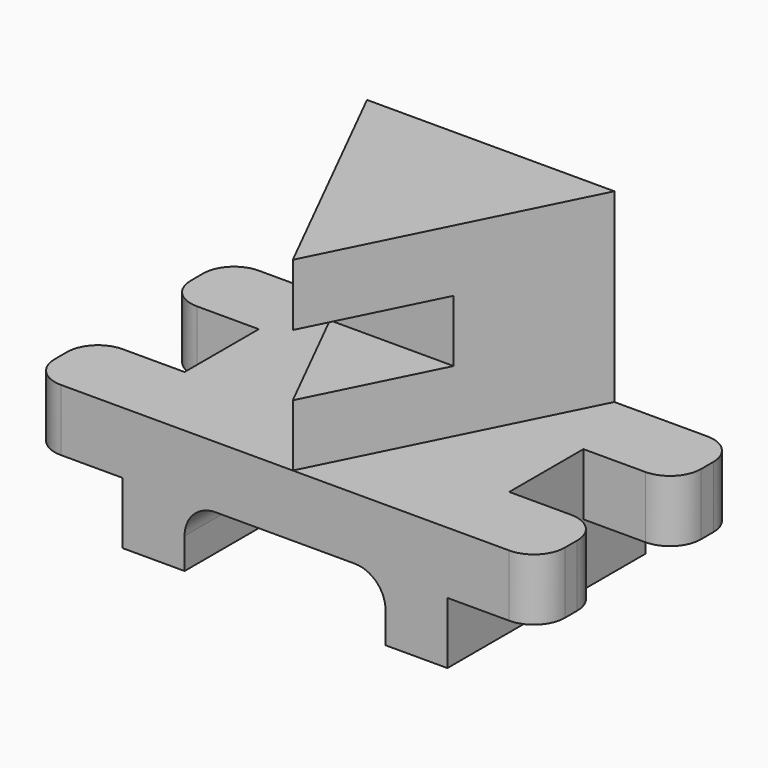
from build123d import *

# Parameters (mm, degrees)
F0_W      = 209.55
F0_H      = 25.4
F1_DEPTH  = 101.6
F2_W      = 38.1
F2_H      = 38.1
F3_DEPTH  = 25.401
F5_DEPTH  = 25.4
F6_W      = 82.55
F6_H      = 101.6
F7_DEPTH  = 25.4
F9_DEPTH  = 76.2
F10_W     = 50.8
F10_H     = 25.4
F11_DEPTH = 50.8
F12_R     = 12.7


with BuildPart() as f1:
    # F0 (on Front) → F1 (new body)
    with BuildSketch(Plane.XZ):
        with Locations((104.775, 12.7)):
            Rectangle(F0_W, F0_H)
    extrude(amount=F1_DEPTH)

    # F2 (on face) → F3 (cut, through all)
    with BuildSketch(Plane.XY.offset(25.4)):
        with Locations((19.05, -50.8)):
            Rectangle(F2_W, F2_H)
        with Locations((190.5, -50.8)):
            Rectangle(F2_W, F2_H)
    extrude(amount=-F3_DEPTH, mode=Mode.SUBTRACT)

    # F4 (on face) → F5 (join)
    with BuildSketch(Plane(origin=(0, 0, 0), x_dir=(1, 0, 0), z_dir=(0, 0, -1))):
        Polygon((171.45, 101.6), (38.1, 101.6), (38.1, 69.85), (38.1, 31.75), (38.1, 0), (171.45, 0), (171.45, 31.75), (171.45, 69.85), align=None)
    extrude(amount=F5_DEPTH)

    # F6 (on face) → F7 (cut)
    with BuildSketch(Plane(origin=(0, 0, -25.4), x_dir=(1, 0, 0), z_dir=(0, 0, -1))):
        with Locations((104.775, 50.8)):
            Rectangle(F6_W, F6_H)
    extrude(amount=-F7_DEPTH, mode=Mode.SUBTRACT)

    # F8 (on face) → F9 (join)
    with BuildSketch(Plane.XY.offset(25.4)):
        Polygon((158.75, 0), (57.15, 0), (107.95, -101.6), align=None)
    extrude(amount=F9_DEPTH)

    # F10 (on face) → F11 (cut)
    with BuildSketch(Plane.XZ.offset(101.6)):
        with Locations((107.95, 63.5)):
            Rectangle(F10_W, F10_H)
    extrude(amount=-F11_DEPTH, mode=Mode.SUBTRACT)

    # F12
    f12_edges = [f1.edges().sort_by_distance(p)[0] for p in [
        (0, -101.6, 12.7),
        (0, -69.85, 12.7),
        (0, -31.75, 12.7),
        (0, 0, 12.7),
        (209.55, 0, 12.7),
        (209.55, -31.75, 12.7),
        (209.55, -69.85, 12.7),
        (209.55, -101.6, 12.7),
        (63.5, -50.8, 0),
        (146.05, -50.8, 0),
    ]]
    fillet(f12_edges, radius=F12_R)


solid = f1.part
